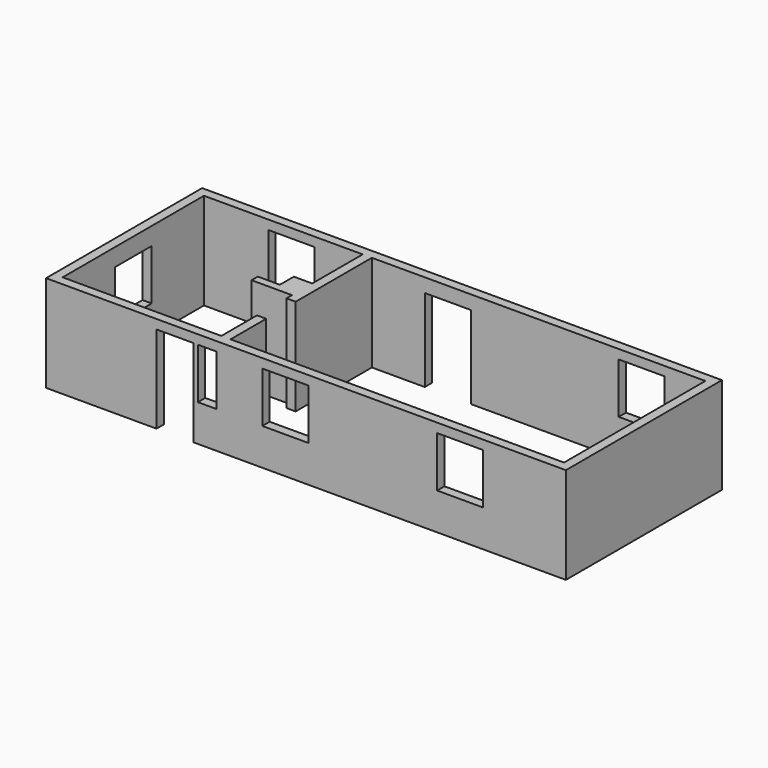
from build123d import *

# Parameters (mm, degrees)
F0_W     = 11300
F0_H     = 4240
F1_DEPTH = 2100
F2_W     = 1000
F2_H     = 1100
F2_W_2   = 500
F5_DEPTH = 1170.001
F3_W     = 1000
F3_H     = 1100
F6_DEPTH = 200
F4_W     = 1000
F4_H     = 1100
F4_H_2   = 1800
F7_DEPTH = 200
F8_W     = 100
F8_H     = 200
F9_DEPTH = 1100


with BuildPart() as f1:
    # F0 (on Top) → F1 (new body)
    with BuildSketch(Plane.XY):
        with Locations((-0.8559785783, -805.5703551552)):
            Rectangle(F0_W, F0_H)
        Polygon((-2000.8559785783, -2725.5703551552), (-5450.8559785783, -2725.5703551552), (-5450.8559785783, 1114.4296448448), (-2000.8559785783, 1114.4296448448), (-2000.8559785783, -255.5703551552), (-2400.8559785783, -255.5703551552), (-2400.8559785783, -635.5703551552), (-2880.8559785783, -635.5703551552), (-2880.8559785783, -805.5703551552), (-2000.8559785783, -805.5703551552), (-2000.8559785783, -955.5703551552), (-1800.8559785783, -955.5703551552), (-1800.8559785783, 1114.4296448448), (5449.1440214217, 1114.4296448448), (5449.1440214217, -2725.5703551552), (-1800.8559785783, -2725.5703551552), (-1800.8559785783, -1755.5703551552), (-2000.8559785783, -1755.5703551552), align=None, mode=Mode.SUBTRACT)
    extrude(amount=F1_DEPTH)

    # F2 (on face) → F5 (cut, through all)
    with BuildSketch(Plane.XZ.offset(2925.5703551552)):
        with Locations((3349.1440214217, 1350)):
            Rectangle(F2_W, F2_H)
        with Locations((-450.8559785783, 1350)):
            Rectangle(F2_W, F2_H)
        with Locations((-2200.8559785783, 1350)):
            Rectangle(F2_W_2, F2_H)
        Polygon((-2450.8559785783, 800), (-2450.8559785783, 1900), (-3250.8559785783, 1900), (-3250.8559785783, 0), (-2450.8559785783, 0), align=None)
    extrude(amount=-F5_DEPTH, mode=Mode.SUBTRACT)

    # F3 (on face) → F6 (cut, through all)
    with BuildSketch(Plane(origin=(-5650.8559785783, 0, 0), x_dir=(0, -1, 0), z_dir=(-1, 0, 0))):
        with Locations((805.5703551552, 1166.1593914032)):
            Rectangle(F3_W, F3_H)
    extrude(amount=-F6_DEPTH, mode=Mode.SUBTRACT)

    # F4 (on face) → F7 (cut, through all)
    with BuildSketch(Plane(origin=(0, 1314.4296448448, 0), x_dir=(-1, 0, 0), z_dir=(0, 1, 0))):
        with Locations((-4064.3822494507, 1350)):
            Rectangle(F4_W, F4_H)
        with Locations((150.8559785783, 900)):
            Rectangle(F4_W, F4_H_2)
        with Locations((3550.8559785783, 1350)):
            Rectangle(F4_W, F4_H)
    extrude(amount=-F7_DEPTH, mode=Mode.SUBTRACT)

    # F8 (on face) → F9 (join, through all)
    with BuildSketch(Plane.XY.offset(800)):
        with Locations((-2400.8559785783, -2825.5703551552)):
            Rectangle(F8_W, F8_H)
    extrude(amount=F9_DEPTH)


solid = f1.part
